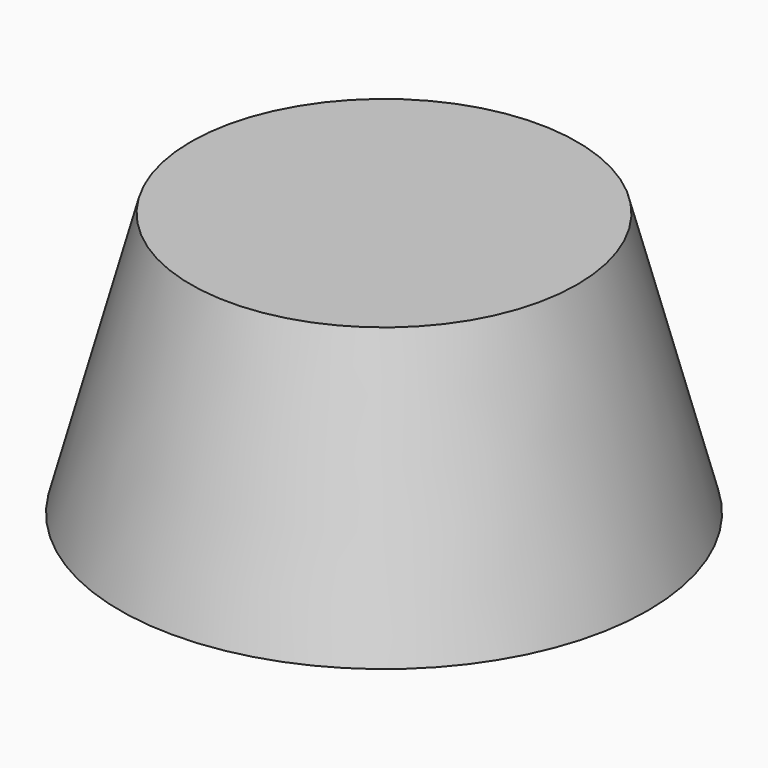
from build123d import *

# Parameters (mm, degrees)
SKETCH_R        = 25
PAD_DEPTH       = 25
PAD_TAPER       = 15
SKETCH001_R     = 19.440567
POCKET_DEPTH    = 20
POCKET_TAPER    = 15
SKETCH002_R     = 10
PAD001_DEPTH    = 25
PAD001_TAPER    = 15
SKETCH003_R     = 2.074758
POCKET001_DEPTH = 17


with BuildPart() as part:
    # Sketch → Pad (new body)
    with BuildSketch(Plane.XY):
        Circle(SKETCH_R)
    extrude(amount=PAD_DEPTH, taper=PAD_TAPER)

    # Sketch001 (on Face2 of Pad) → Pocket (cut)
    with BuildSketch(Plane(origin=(0, 0, 0), x_dir=(1, 0, 0), z_dir=(0, 0, -1))):
        Circle(SKETCH001_R)
    extrude(amount=-POCKET_DEPTH, taper=POCKET_TAPER, mode=Mode.SUBTRACT)

    # Sketch002 (on Face5 of Pocket) → Pad001 (join)
    with BuildSketch(Plane(origin=(0, 0, 20), x_dir=(1, 0, 0), z_dir=(0, 0, -1))):
        Circle(SKETCH002_R)
    extrude(amount=PAD001_DEPTH, taper=PAD001_TAPER)

    # Sketch003 (on Face7 of Pad001) → Pocket001 (cut)
    with BuildSketch(Plane(origin=(0, 0, -5), x_dir=(1, 0, 0), z_dir=(0, 0, -1))):
        Circle(SKETCH003_R)
    extrude(amount=-POCKET001_DEPTH, mode=Mode.SUBTRACT)


solid = part.part
